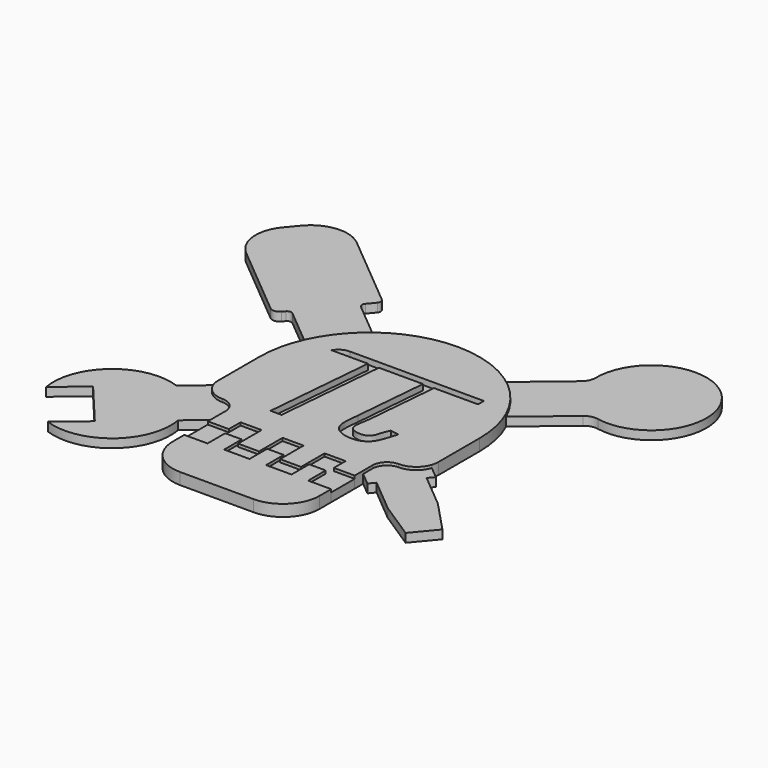
from build123d import *

# Parameters (mm, degrees)
F1_DEPTH = 2
F2_DEPTH = 1.5
F4_DEPTH = 1
F5_W     = 2.8702
F5_H     = 3.81
F6_DEPTH = 2
F8_DEPTH = 1.5


with BuildPart() as f1:
    # F0 (on Top) → F1 (new body)
    with BuildSketch(Plane.XY):
        with BuildLine():
            ThreePointArc((-17.350378822, 7.865548597), (-18.6202472669, 4.0235421857), (-19.05, 0))
            Line((-19.05, 0), (-19.05, -8.89))
            ThreePointArc((-19.05, -8.89), (-19.0435687847, -9.1112792359), (-19.0242968503, -9.3318114407))
            Line((-19.0242968503, -9.3318114407), (-7.9152189824, -0.010188299))
            Line((-7.9152189824, -0.010188299), (-17.350378822, 7.865548597))
        make_face()
        with BuildLine():
            Line((17.3300726338, 7.9101885255), (7.3486507997, -0.4652188541))
            Line((7.3486507997, -0.4652188541), (18.8610686328, -10.0748890061))
            ThreePointArc((18.8610686328, -10.0748890061), (19.002470697, -9.4899285412), (19.05, -8.89))
            Line((19.05, -8.89), (19.05, 0))
            ThreePointArc((19.05, 0), (18.6150528293, 4.047506413), (17.3300726338, 7.9101885255))
        make_face()
        with BuildLine():
            ThreePointArc((0, 19.05), (-6.0354590928, 18.0686395044), (-11.4490849965, 15.2256675631))
            Line((-11.4490849965, 15.2256675631), (-0.575094857, 6.1489071474))
            Line((-0.575094857, 6.1489071474), (10.7993505194, 15.6932000676))
            ThreePointArc((10.7993505194, 15.6932000676), (5.6545131848, 18.1914535055), (0, 19.05))
        make_face()
        Polygon((12.7, -17.2181681869), (0.0085266744, -6.6243143005), (-12.7, -17.2880343458), (-12.7, -19.05), (-9.0678, -19.05), (-9.0678, -16.51), (-5.4356, -16.51), (-5.4356, -21.59), (-1.8034, -21.59), (-1.8034, -16.51), (1.8288, -16.51), (1.8288, -21.59), (5.461, -21.59), (5.461, -16.51), (9.0932, -16.51), (9.0932, -19.05), (12.7, -19.05), align=None)
        with BuildLine():
            ThreePointArc((-11.4490849965, 15.2256675631), (-14.8625407268, 11.9166850736), (-17.350378822, 7.865548597))
            Line((-17.350378822, 7.865548597), (-7.9152189824, -0.010188299))
            Line((-7.9152189824, -0.010188299), (-0.575094857, 6.1489071474))
            Line((-0.575094857, 6.1489071474), (-11.4490849965, 15.2256675631))
        make_face()
        with BuildLine():
            Line((10.7993505194, 15.6932000676), (-0.575094857, 6.1489071474))
            Line((-0.575094857, 6.1489071474), (7.3486507997, -0.4652188541))
            Line((7.3486507997, -0.4652188541), (17.3300726338, 7.9101885255))
            ThreePointArc((17.3300726338, 7.9101885255), (14.5931466414, 12.2451039645), (10.7993505194, 15.6932000676))
        make_face()
        with BuildLine():
            Line((-7.9152189824, -0.010188299), (-19.0242968503, -9.3318114407))
            ThreePointArc((-19.0242968503, -9.3318114407), (-17.7730612321, -11.7359973286), (-15.24, -12.7))
            ThreePointArc((-15.24, -12.7), (-13.4439487758, -13.4439487758), (-12.7, -15.24))
            Line((-12.7, -15.24), (-12.7, -17.2880343458))
            Line((-12.7, -17.2880343458), (0.0085266744, -6.6243143005))
            Line((0.0085266744, -6.6243143005), (-7.9152189824, -0.010188299))
        make_face()
        with BuildLine():
            Line((7.3486507997, -0.4652188541), (0.0085266744, -6.6243143005))
            Line((0.0085266744, -6.6243143005), (12.7, -17.2181681869))
            Line((12.7, -17.2181681869), (12.7, -15.24))
            ThreePointArc((12.7, -15.24), (13.4439487758, -13.4439487758), (15.24, -12.7))
            ThreePointArc((15.24, -12.7), (17.4762550041, -11.9746820836), (18.8610686328, -10.0748890061))
            Line((18.8610686328, -10.0748890061), (7.3486507997, -0.4652188541))
        make_face()
        Polygon((-0.575094857, 6.1489071474), (-7.9152189824, -0.010188299), (0.0085266744, -6.6243143005), (7.3486507997, -0.4652188541), align=None)
    extrude(amount=F1_DEPTH)

    # F0 (on Top) → F2 (join)
    with BuildSketch(Plane.XY):
        Polygon((20.1248387317, -12.7840851229), (15.7083738332, -18.0750252334), (21.5582224331, -22.958023427), (27.9471431324, -27.1108648998), (31.2024752615, -23.2109658333), (25.9746873315, -17.6670833165), align=None)
        with BuildLine():
            Line((18.7552497683, 22.3689921931), (10.7993505194, 15.6932000676))
            ThreePointArc((10.7993505194, 15.6932000676), (14.5931466414, 12.2451039645), (17.3300726338, 7.9101885255))
            Line((17.3300726338, 7.9101885255), (25.2859718828, 14.585980651))
            ThreePointArc((25.2859718828, 14.585980651), (26.2791103213, 15.0983949516), (27.3960504896, 15.1349604315))
            ThreePointArc((27.3960504896, 15.1349604315), (36.4828666035, 30.6127599113), (19.6623006172, 24.351684626))
            ThreePointArc((19.6623006172, 24.351684626), (19.4323360244, 23.2580628177), (18.7552497683, 22.3689921931))
        make_face()
        with BuildLine():
            Line((-24.1044498645, 13.503321291), (-17.350378822, 7.865548597))
            ThreePointArc((-17.350378822, 7.865548597), (-14.8625407268, 11.9166850736), (-11.4490849965, 15.2256675631))
            Line((-11.4490849965, 15.2256675631), (-18.0603189015, 20.7442109348))
            ThreePointArc((-18.0603189015, 20.7442109348), (-18.3325134958, 21.2638215274), (-18.1575639657, 21.8237123444))
            Line((-18.1575639657, 21.8237123444), (-17.0887919872, 23.1041048439))
            ThreePointArc((-17.0887919872, 23.1041048439), (-16.9138424571, 23.663995661), (-17.1860370515, 24.1836062535))
            Line((-17.1860370515, 24.1836062535), (-30.2473105474, 35.0861405327))
            ThreePointArc((-30.2473105474, 35.0861405327), (-34.8861977743, 36.5356573238), (-39.191349542, 34.2804318609))
            Line((-39.191349542, 34.2804318609), (-40.8190156065, 32.3304823277))
            ThreePointArc((-40.8190156065, 32.3304823277), (-42.2685323976, 27.6915951008), (-40.0133069347, 23.3864433331))
            Line((-40.0133069347, 23.3864433331), (-27.3386349685, 12.8066139135))
            ThreePointArc((-27.3386349685, 12.8066139135), (-26.4108575231, 12.5167105553), (-25.5498271696, 12.9677556479))
            Line((-25.5498271696, 12.9677556479), (-25.1839512741, 13.4060762268))
            ThreePointArc((-25.1839512741, 13.4060762268), (-24.6643406815, 13.6782708211), (-24.1044498645, 13.503321291))
        make_face()
        with BuildLine():
            ThreePointArc((-15.24, -12.7), (-17.7730612321, -11.7359973286), (-19.0242968503, -9.3318114407))
            Line((-19.0242968503, -9.3318114407), (-23.1482866563, -12.7922497659))
            Line((-23.1482866563, -12.7922497659), (-31.7644758693, -20.0220909567))
            Line((-31.7644758693, -20.0220909567), (-25.2337537549, -27.8051024988))
            Line((-25.2337537549, -27.8051024988), (-16.6175645419, -20.575261308))
            Line((-16.6175645419, -20.575261308), (-12.7, -17.2880343458))
            Line((-12.7, -17.2880343458), (-12.7, -15.24))
            ThreePointArc((-12.7, -15.24), (-13.4439487758, -13.4439487758), (-15.24, -12.7))
        make_face()
        with BuildLine():
            Line((-16.6175645419, -20.575261308), (-25.2337537549, -27.8051024988))
            Line((-25.2337537549, -27.8051024988), (-30.0981359687, -31.8868038203))
            ThreePointArc((-30.0981359687, -31.8868038203), (-20.0924891981, -30.1225383352), (-16.6175645419, -20.575261308))
        make_face()
        with BuildLine():
            Line((-31.7644758693, -20.0220909567), (-23.1482866563, -12.7922497659))
            ThreePointArc((-23.1482866563, -12.7922497659), (-33.1539334269, -14.556515251), (-36.6288580831, -24.1037922782))
            Line((-36.6288580831, -24.1037922782), (-31.7644758693, -20.0220909567))
        make_face()
        with BuildLine():
            Line((12.7, -15.24), (12.7, -17.2181681869))
            Line((12.7, -17.2181681869), (14.894540801, -19.05))
            Line((14.894540801, -19.05), (15.7083738332, -18.0750252334))
            Line((15.7083738332, -18.0750252334), (20.1248387317, -12.7840851229))
            Line((20.1248387317, -12.7840851229), (20.938671764, -11.8091103562))
            Line((20.938671764, -11.8091103562), (18.8610686328, -10.0748890061))
            ThreePointArc((18.8610686328, -10.0748890061), (17.4762550041, -11.9746820836), (15.24, -12.7))
            ThreePointArc((15.24, -12.7), (13.4439487758, -13.4439487758), (12.7, -15.24))
        make_face()
    extrude(amount=F2_DEPTH)

    # F3 (on face) → F4 (cut)
    with BuildSketch(Plane.XY.offset(2)):
        with BuildLine():
            Line((12.7, 8.89), (-10.4481822536, 8.89))
            ThreePointArc((-10.4481822536, 8.89), (-11.5184231136, 8.6535156829), (-12.3893764312, 7.9880980327))
            Line((-12.3893764312, 7.9880980327), (-12.7, 7.62))
            Line((-12.7, 7.62), (-6.35, 7.62))
            Line((-6.35, 7.62), (-8.0103168993, -11.3575089986))
            Line((-8.0103168993, -11.3575089986), (-6.1053168993, -11.3575089986))
            Line((-6.1053168993, -11.3575089986), (-4.445, 7.62))
            Line((-4.445, 7.62), (3.175, 7.62))
            Line((3.175, 7.62), (2.0681220671, -5.0316726658))
            add(Edge.make_bspline(
                [(2.0681220671, -5.0316726658), (1.8304261093, -6.956908444), (1.3925031709, -10.1392600556), (6.3314754855, -11.3272816981), (9.0033069328, -9.4686784473), (9.3289021809, -7.1893715816), (9.7937943782, -5.9887018198)],
                knots=[0, 0, 0, 0, 0.2793829209, 0.5368902178, 0.7566094182, 1, 1, 1, 1], degree=3))
            Line((9.7937943782, -5.9887018198), (8.292642422, -5.7257972658))
            add(Edge.make_bspline(
                [(3.9731220671, -5.0316726658), (3.778757999, -6.3917031803), (2.9157932186, -8.9272441493), (6.9047718659, -9.3253261705), (7.6644494392, -7.5986876784), (7.8427474677, -6.5614490151), (8.292642422, -5.7257972658)],
                knots=[0, 0, 0, 0, 0.2985127985, 0.5656746563, 0.7663024976, 1, 1, 1, 1], degree=3))
            Line((3.9731220671, -5.0316726658), (5.08, 7.62))
            Line((5.08, 7.62), (12.7, 7.62))
            Line((12.7, 7.62), (12.7, 8.89))
        make_face()
    extrude(amount=-F4_DEPTH, mode=Mode.SUBTRACT)


with BuildPart() as f6:
    # F5 (on face) → F6 (new body)
    with BuildSketch(Plane(origin=(0, 0, 0), x_dir=(1, 0, 0), z_dir=(0, 0, -1))):
        with BuildLine():
            ThreePointArc((12.7, 26.6164491925), (10.8401280605, 31.1065772531), (6.35, 32.9664491925))
            Line((6.35, 32.9664491925), (-6.35, 32.9664491925))
            ThreePointArc((-6.35, 32.9664491925), (-10.8401280605, 31.1065772531), (-12.7, 26.6164491925))
            Line((-12.7, 26.6164491925), (-12.7, 24.13))
            Line((-12.7, 24.13), (-8.6868, 24.13))
            Line((-8.6868, 24.13), (-5.8166, 24.13))
            Line((-5.8166, 24.13), (-1.4224, 24.13))
            Line((-1.4224, 24.13), (1.4478, 24.13))
            Line((1.4478, 24.13), (5.842, 24.13))
            Line((5.842, 24.13), (8.7122, 24.13))
            Line((8.7122, 24.13), (12.7, 24.13))
            Line((12.7, 24.13), (12.7, 26.6164491925))
        make_face()
        with Locations((7.2771, 22.225)):
            Rectangle(F5_W, F5_H)
        with Locations((-7.2517, 22.225)):
            Rectangle(F5_W, F5_H)
        with Locations((0.0127, 22.225)):
            Rectangle(F5_W, F5_H)
    extrude(amount=-F6_DEPTH)


with BuildPart() as f8:
    # F7 (on face) → F8 (new body)
    with BuildSketch(Plane(origin=(0, 0, 0), x_dir=(1, 0, 0), z_dir=(0, 0, -1))):
        Polygon((9.0932, 19.05), (12.7, 19.05), (12.7, 24.13), (8.7122, 24.13), (8.7122, 20.32), (5.842, 20.32), (5.842, 24.13), (1.4478, 24.13), (1.4478, 20.32), (-1.4224, 20.32), (-1.4224, 24.13), (-5.8166, 24.13), (-5.8166, 20.32), (-8.6868, 20.32), (-8.6868, 24.13), (-12.7, 24.13), (-12.7, 19.05), (-9.0678, 19.05), (-9.0678, 16.51), (-5.4356, 16.51), (-5.4356, 21.59), (-1.8034, 21.59), (-1.8034, 16.51), (1.8288, 16.51), (1.8288, 21.59), (5.461, 21.59), (5.461, 16.51), (9.0932, 16.51), align=None)
    extrude(amount=-F8_DEPTH)


solid = Compound([f1.part, f6.part, f8.part])
